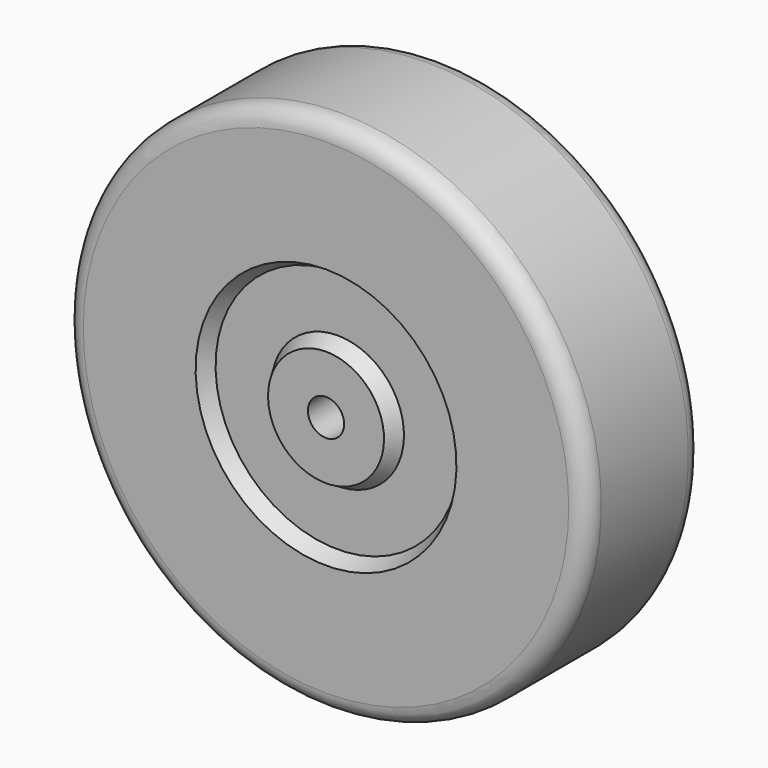
from build123d import *


with BuildPart() as f1:
    # F0 (on Right) → F1 (revolve)
    with BuildSketch(Plane.YZ):
        with BuildLine():
            Line((-12.7, 3.175), (12.7, 3.175))
            Line((12.7, 3.175), (12.7, 10.16))
            Line((12.7, 10.16), (10.16, 11.62647))
            Line((10.16, 11.62647), (10.16, 21.39353))
            Line((10.16, 21.39353), (12.7, 22.86))
            Line((12.7, 22.86), (12.7, 42.545))
            ThreePointArc((12.7, 42.545), (11.770064, 44.790064), (9.525, 45.72))
            Line((9.525, 45.72), (-9.525, 45.72))
            ThreePointArc((-9.525, 45.72), (-11.770064, 44.790064), (-12.7, 42.545))
            Line((-12.7, 42.545), (-12.7, 22.86))
            Line((-12.7, 22.86), (-10.16, 21.39353))
            Line((-10.16, 21.39353), (-10.16, 11.62647))
            Line((-10.16, 11.62647), (-12.7, 10.16))
            Line((-12.7, 10.16), (-12.7, 3.175))
        make_face()
    revolve(axis=Axis((0, -22.93878, 0), (0, -1, 0)))


solid = f1.part
